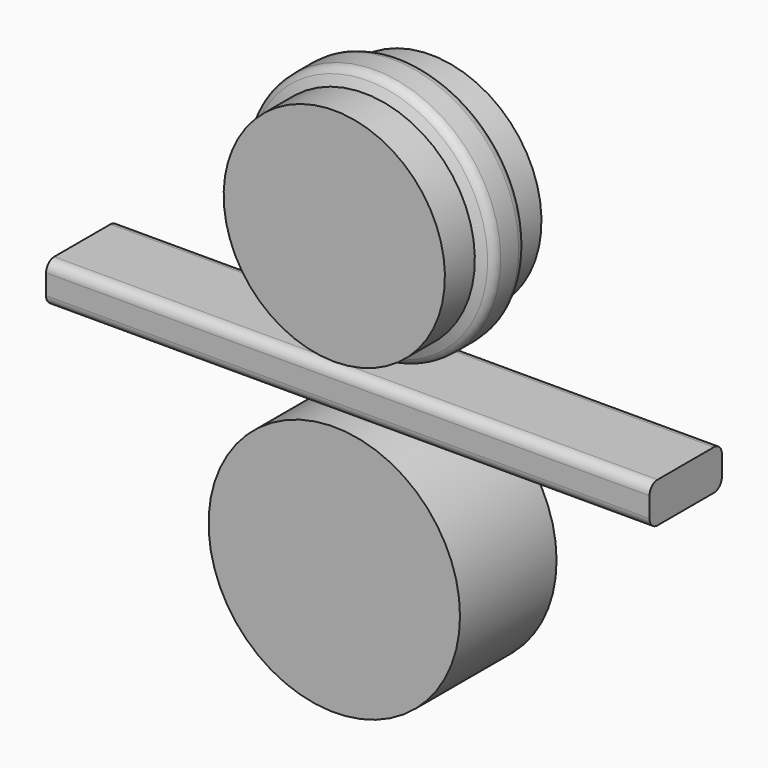
from build123d import *

# Parameters (mm, degrees)
F2_DEPTH = 30
F0_R     = 12.5
F3_DEPTH = 12
F6_R     = 1
F7_R     = 1


with BuildPart() as f2:
    # F1 (on Right) → F2 (new body, symmetric)
    with BuildSketch(Plane.YZ):
        with BuildLine():
            Line((-2.3217727498, 1.9332754826), (-9.3217727498, 1.9332754826))
            ThreePointArc((-9.3217727498, 1.9332754826), (-10.0288795309, 1.6403822638), (-10.3217727498, 0.9332754826))
            Line((-10.3217727498, 0.9332754826), (-10.3217727498, -1.0667245174))
            ThreePointArc((-10.3217727498, -1.0667245174), (-10.0288795309, -1.7738312986), (-9.3217727498, -2.0667245174))
            Line((-9.3217727498, -2.0667245174), (-2.3217727498, -2.0667245174))
            ThreePointArc((-2.3217727498, -2.0667245174), (-1.6146659686, -1.7738312986), (-1.3217727498, -1.0667245174))
            Line((-1.3217727498, -1.0667245174), (-1.3217727498, 0.9332754826))
            ThreePointArc((-1.3217727498, 0.9332754826), (-1.6146659686, 1.6403822638), (-2.3217727498, 1.9332754826))
        make_face()
    extrude(amount=F2_DEPTH, both=True)


with BuildPart() as f3:
    # F0 (on Front) → F3 (new body)
    with BuildSketch(Plane.XZ):
        with Locations((0, -14.6136025154)):
            Circle(F0_R)
    extrude(amount=F3_DEPTH)


with BuildPart() as f5:
    # F4 (on Right) → F5 (revolve)
    with BuildSketch(Plane.YZ):
        Polygon((0, 3.5909637578), (0, 14.5909637578), (-12, 14.5909637578), (-12, 3.5909637578), (-8.2804769289, 3.5909637578), (-7.5810154416, 2.0909637578), (-4.0810154416, 2.0909637578), (-3.3815539544, 3.5909637578), align=None)
    revolve(axis=Axis((0, -6, 14.5909637578), (0, 1, 0)))

    # F6
    f6_edges = [f5.edges().sort_by_distance(p)[0] for p in [
        (0, -7.581015, 27.090964),
    ]]
    fillet(f6_edges, radius=F6_R)

    # F7
    f7_edges = [f5.edges().sort_by_distance(p)[0] for p in [
        (0, -4.081015, 27.090964),
    ]]
    fillet(f7_edges, radius=F7_R)


solid = Compound([f2.part, f3.part, f5.part])
